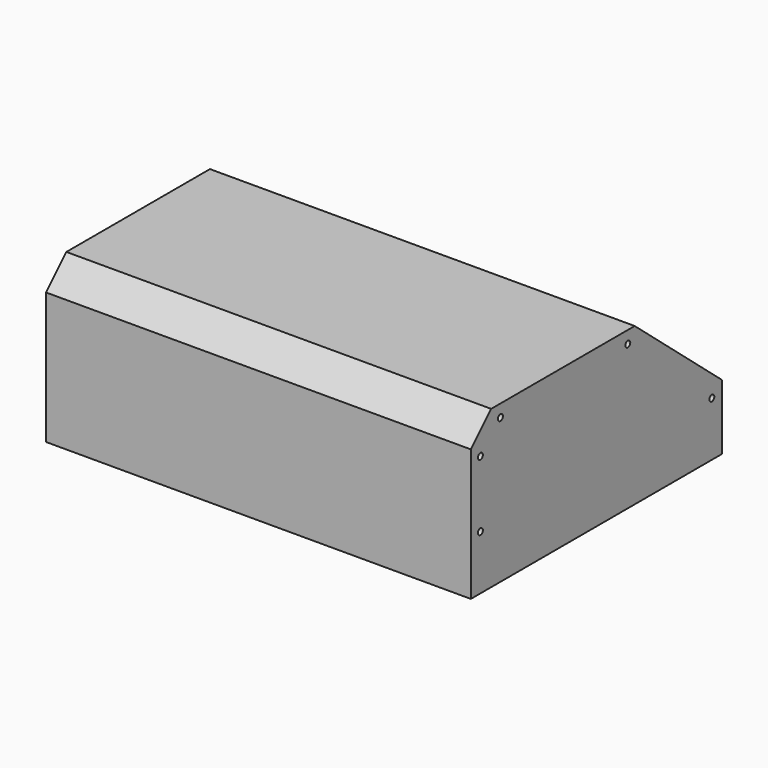
from build123d import *

# Parameters (mm, degrees)
F1_DEPTH = 248.031
F3_D     = 3.6


with BuildPart() as f1:
    # F0 (on Right) → F1 (new body)
    with BuildSketch(Plane.YZ):
        Polygon((0, 76.8765774002), (0, 0), (183.261, 0), (183.261, 38.1), (119.5924225998, 91.694), (14.8174225998, 91.694), align=None)
    extrude(amount=F1_DEPTH)

    # F3 (through all)
    with Locations(Plane.YZ.offset(248.031)):
        with Locations((21.59, 84.455), (6.985, 70.485), (6.985, 31.75), (175.895, 31.75), (114.554, 84.455)):
            Hole(F3_D / 2)


solid = f1.part
